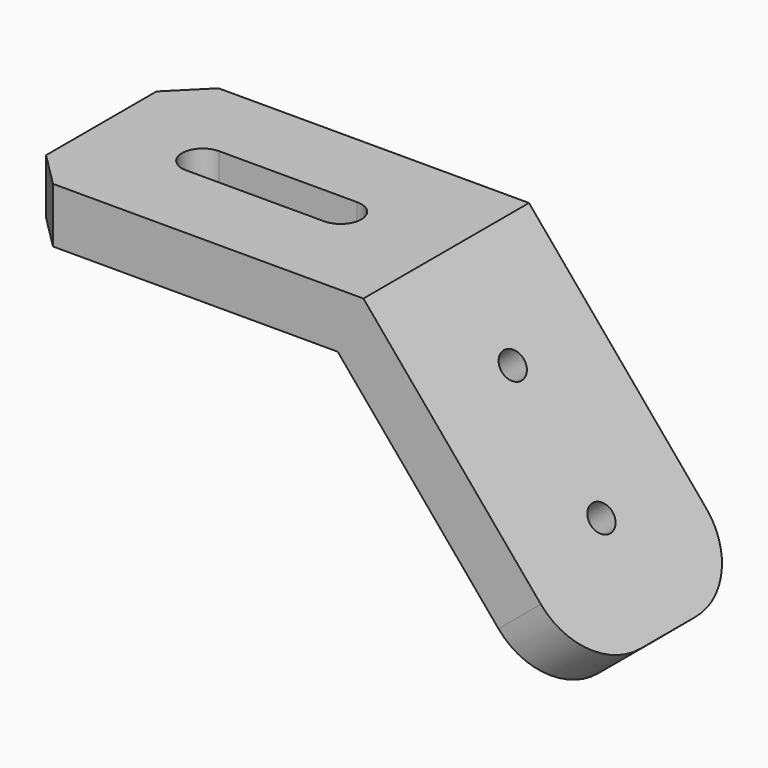
from build123d import *

# Parameters (mm, degrees)
F1_DEPTH = 15
F3_DEPTH = 43.4455230334
F5_D     = 4
F6_R     = 10
F7_SIZE  = 5


with BuildPart() as f1:
    # F0 (on Front) → F1 (new body, symmetric)
    with BuildSketch(Plane.XZ):
        Polygon((0, 8), (0, 0), (46.2695387348, 0), (76.0110249394, -35.4445230334), (82.1393804843, -30.3022221559), (50, 8), align=None)
    extrude(amount=F1_DEPTH, both=True)

    # F2 (on face) → F3 (cut, through all)
    with BuildSketch(Plane.XY.offset(8)):
        with BuildLine():
            ThreePointArc((14.6969384567, 3), (11.6969384567, 0), (14.6969384567, -3))
            Line((14.6969384567, -3), (34.6969384567, -3))
            ThreePointArc((34.6969384567, -3), (37.6969384567, 0), (34.6969384567, 3))
            Line((34.6969384567, 3), (14.6969384567, 3))
        make_face()
    extrude(amount=-F3_DEPTH, mode=Mode.SUBTRACT)

    # F5 (through all)
    with Locations(Plane(origin=(33.2804354537, 0, 27.9256011146), x_dir=(0, 1, 0), z_dir=(0.7660444431, 0, 0.6427876097))):
        with Locations((0, -41.0110249394), (0, -61.0110249394)):
            Hole(F5_D / 2)

    # F6
    f6_edges = [f1.edges().sort_by_distance(p)[0] for p in [
        (79.075203, -15, -32.873373),
        (79.075203, 15, -32.873373),
    ]]
    fillet(f6_edges, radius=F6_R)

    # F7
    f7_edges = [f1.edges().sort_by_distance(p)[0] for p in [
        (0, 15, 4),
        (0, -15, 4),
    ]]
    chamfer(f7_edges, length=F7_SIZE)


solid = f1.part
